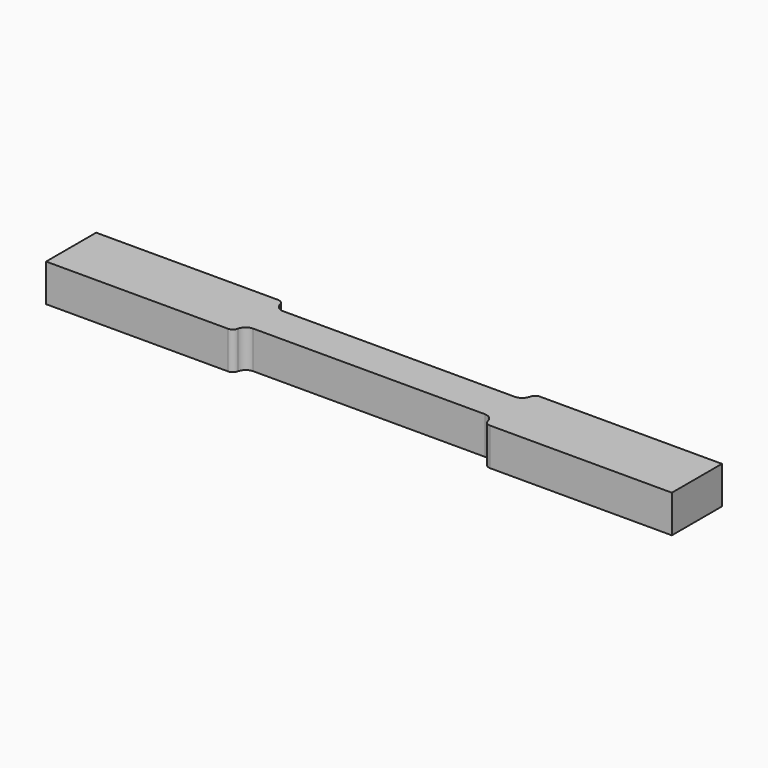
from build123d import *

# Parameters (mm, degrees)
PAD_DEPTH   = 6
FILLET_R    = 1.5
FILLET001_R = 1


with BuildPart() as part:
    # Sketch → Pad (new body)
    with BuildSketch(Plane.XY):
        Polygon((0, 0), (0, 10), (30, 10), (30, 8), (70, 8), (70, 10), (100, 10), (100, 0), (70, 0), (70, 2), (30, 2), (30, 0), align=None)
    extrude(amount=PAD_DEPTH)

    # Fillet
    fillet_edges = [part.edges().sort_by_distance(p)[0] for p in [
        (70, 8, 3),
        (70, 2, 3),
        (30, 2, 3),
        (30, 8, 3),
    ]]
    fillet(fillet_edges, radius=FILLET_R)

    # Fillet001
    fillet001_edges = [part.edges().sort_by_distance(p)[0] for p in [
        (30, 10, 3),
        (30, 0, 3),
        (70, 0, 3),
        (70, 10, 3),
    ]]
    fillet(fillet001_edges, radius=FILLET001_R)


solid = part.part
